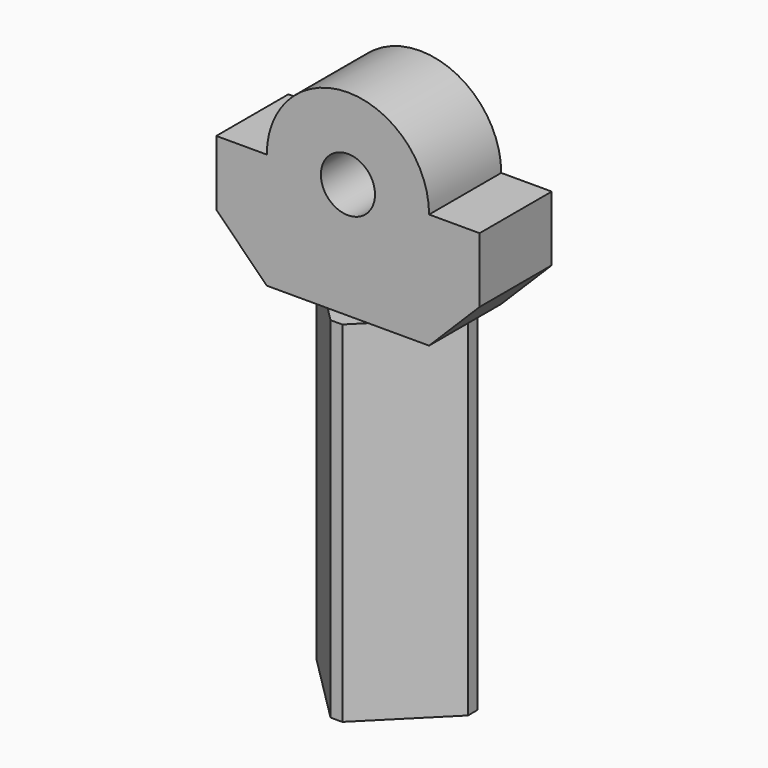
from build123d import *

# Parameters (mm, degrees)
PAD_DEPTH    = 12.5
SKETCH001_R  = 7.5
HOLE_DEPTH   = 25.001
PAD001_DEPTH = 97


with BuildPart() as part:
    # Sketch → Pad (new body, symmetric)
    with BuildSketch(Plane.XZ):
        with BuildLine():
            ThreePointArc((22.5, 0), (0, 22.5), (-22.5, 0))
            Line((-36.5, 0), (-22.5, 0))
            Line((-36.5, -18), (-36.5, 0))
            Line((-22.5, -32), (-36.5, -18))
            Line((22.5, -32), (-22.5, -32))
            Line((36.5, -18), (22.5, -32))
            Line((36.5, 0), (36.5, -18))
            Line((22.5, 0), (36.5, 0))
        make_face()
    extrude(amount=PAD_DEPTH, both=True)

    # Sketch001 (on Face10 of Pad) → Hole (cut, through all)
    with BuildSketch(Plane.XZ.offset(12.5)):
        Circle(SKETCH001_R)
    extrude(amount=-HOLE_DEPTH, mode=Mode.SUBTRACT)

    # Sketch002 (on Face5 of Pad) → Pad001 (join)
    with BuildSketch(Plane(origin=(0, 0, -32), x_dir=(1, 0, 0), z_dir=(0, 0, -1))):
        Polygon((-21, -2.872583), (-1.627417, 16.5), (1.627417, 16.5), (21, -2.872583), (21, -6.127417), (14.627417, -12.5), (-14.627417, -12.5), (-21, -6.127417), align=None)
    extrude(amount=PAD001_DEPTH)


solid = part.part
